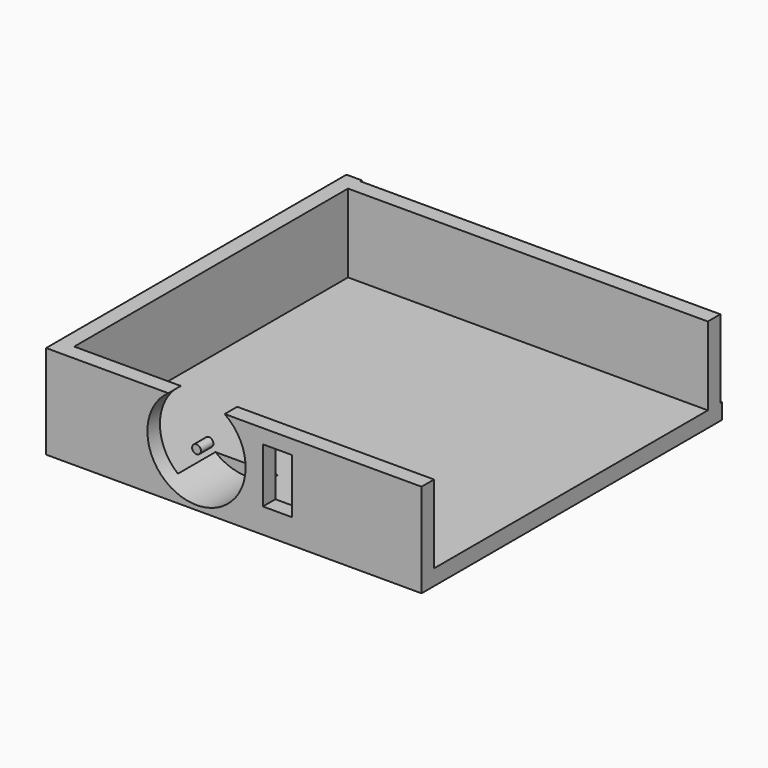
from build123d import *

# Parameters (mm, degrees)
F0_W      = 152.4
F0_H      = 152.4
F1_DEPTH  = 6.35
F2_W      = 152.4
F2_H      = 6.35
F3_DEPTH  = 38.1
F4_W      = 152.4
F4_H      = 6.35
F5_DEPTH  = 38.1
F6_W      = 6.35
F6_H      = 152.4
F7_DEPTH  = 38.1
F8_W      = 11.90625
F8_H      = 22.225
F8_R      = 19.939
F8_R_2    = 1.785938
F9_DEPTH  = 25.4
F10_DEPTH = 25.4


with BuildPart() as f1:
    # F0 (on Top) → F1 (new body)
    with BuildSketch(Plane.XY):
        with Locations((76.2, 76.2)):
            Rectangle(F0_W, F0_H)
    extrude(amount=F1_DEPTH)

    # F2 (on Top) → F3 (join)
    with BuildSketch(Plane.XY):
        with Locations((76.2, 3.175)):
            Rectangle(F2_W, F2_H)
    extrude(amount=F3_DEPTH)

    # F4 (on Top) → F5 (join)
    with BuildSketch(Plane.XY):
        with Locations((76.2, 148.426215)):
            Rectangle(F4_W, F4_H)
    extrude(amount=F5_DEPTH)

    # F6 (on Top) → F7 (join)
    with BuildSketch(Plane.XY):
        with Locations((3.175, 76.2)):
            Rectangle(F6_W, F6_H)
    extrude(amount=F7_DEPTH)

    # F8 (on Front) → F9 (cut)
    with BuildSketch(Plane.XZ):
        with Locations((93.952597, 21.213)):
            Rectangle(F8_W, F8_H)
        with Locations((61.057515, 21.773981)):
            Circle(F8_R)
        with Locations((61.057515, 21.773981)):
            Circle(F8_R_2, mode=Mode.SUBTRACT)
    extrude(amount=-F9_DEPTH, mode=Mode.SUBTRACT)

    # F8 (on Front) → F10 (cut)
    with BuildSketch(Plane.XZ):
        with Locations((93.952597, 21.213)):
            Rectangle(F8_W, F8_H)
    extrude(amount=-F10_DEPTH, mode=Mode.SUBTRACT)


solid = f1.part
